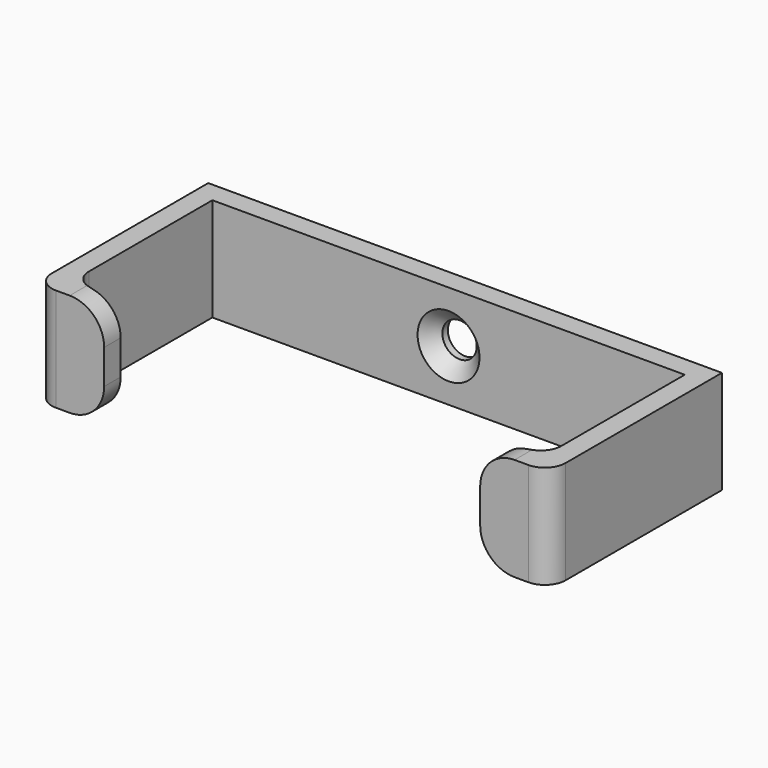
from build123d import *

# Parameters (mm, degrees)
F1_DEPTH       = 15
F3_D           = 5
F3_DEPTH       = 11
F3_CSINK_D     = 9
F3_CSINK_ANGLE = 90
F4_R           = 5
F5_R           = 3


with BuildPart() as f1:
    # F0 (on Top) → F1 (new body)
    with BuildSketch(Plane.XY):
        Polygon((0, -25.4), (0, 0), (68.63, 0), (68.63, -25.4), (61.63, -25.4), (61.63, -28.4), (71.63, -28.4), (71.63, 3), (-3, 3), (-3, -28.4), (7, -28.4), (7, -25.4), align=None)
    extrude(amount=F1_DEPTH)

    # F3
    with Locations(Plane.XZ):
        with Locations((34.315, 7.5)):
            CounterSinkHole(F3_D / 2, F3_CSINK_D / 2, depth=F3_DEPTH, counter_sink_angle=F3_CSINK_ANGLE)

    # F4
    f4_edges = [f1.edges().sort_by_distance(p)[0] for p in [
        (7, -26.9, 15),
        (61.63, -26.9, 15),
        (7, -26.9, 0),
        (61.63, -26.9, 0),
    ]]
    fillet(f4_edges, radius=F4_R)

    # F5
    f5_edges = [f1.edges().sort_by_distance(p)[0] for p in [
        (0, -25.4, 7.5),
        (-3, -28.4, 7.5),
        (71.63, -28.4, 7.5),
        (68.63, -25.4, 7.5),
    ]]
    fillet(f5_edges, radius=F5_R)


solid = f1.part
